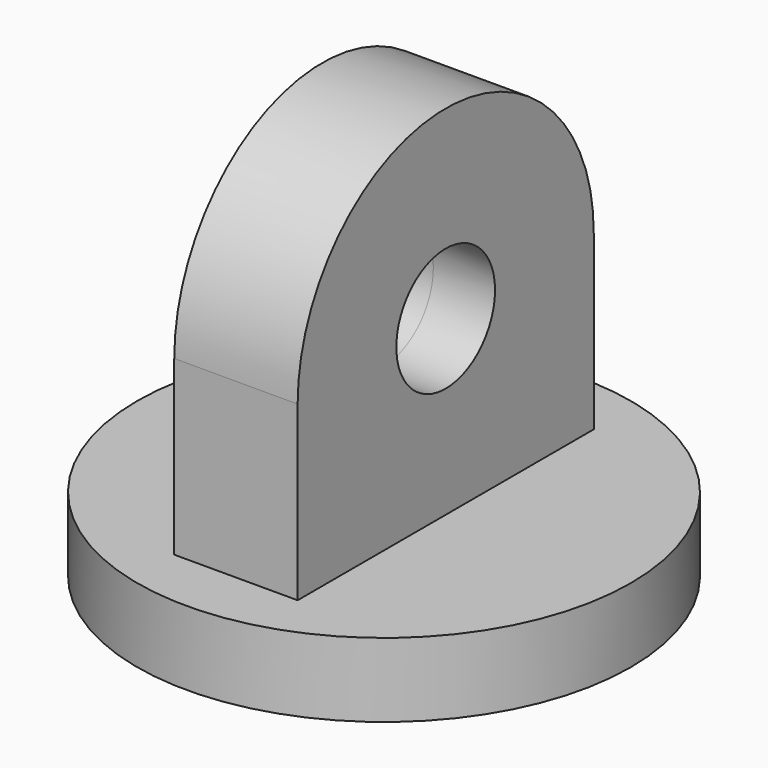
from build123d import *

# Parameters (mm, degrees)
F0_R     = 25.4
F1_DEPTH = 25.4
F2_W     = 25.4
F2_H     = 76.2
F2_H_2   = 76.310582
F3_DEPTH = 43.18
F4_R     = 6.35
F4_W     = 19.05
F4_H     = 17.78
F5_DEPTH = 25.4


with BuildPart() as f1:
    # F0 (on Top) → F1 (new body, symmetric)
    with BuildSketch(Plane.XY):
        Circle(F0_R)
    extrude(amount=F1_DEPTH, both=True)

    # F2 (on face) → F3 (cut)
    with BuildSketch(Plane.XY.offset(25.4)):
        with Locations((-19.05, 0)):
            Rectangle(F2_W, F2_H)
        with Locations((19.05, -0.055291)):
            Rectangle(F2_W, F2_H_2)
    extrude(amount=-F3_DEPTH, mode=Mode.SUBTRACT)

    # F4 (on Right) → F5 (cut, symmetric)
    with BuildSketch(Plane.YZ):
        Circle(F4_R)
        with BuildLine():
            ThreePointArc((-19.05, 0), (0, 19.05), (19.05, 0))
            Line((19.05, 0), (38.1, 0))
            Line((38.1, 0), (38.1, 38.1))
            Line((38.1, 38.1), (-38.1, 38.1))
            Line((-38.1, 38.1), (-38.1, 0))
            Line((-38.1, 0), (-19.05, 0))
        make_face()
        with Locations((28.575, -8.89)):
            Rectangle(F4_W, F4_H)
        with Locations((-28.575, -8.89)):
            Rectangle(F4_W, F4_H)
    extrude(amount=F5_DEPTH, both=True, mode=Mode.SUBTRACT)


solid = f1.part
